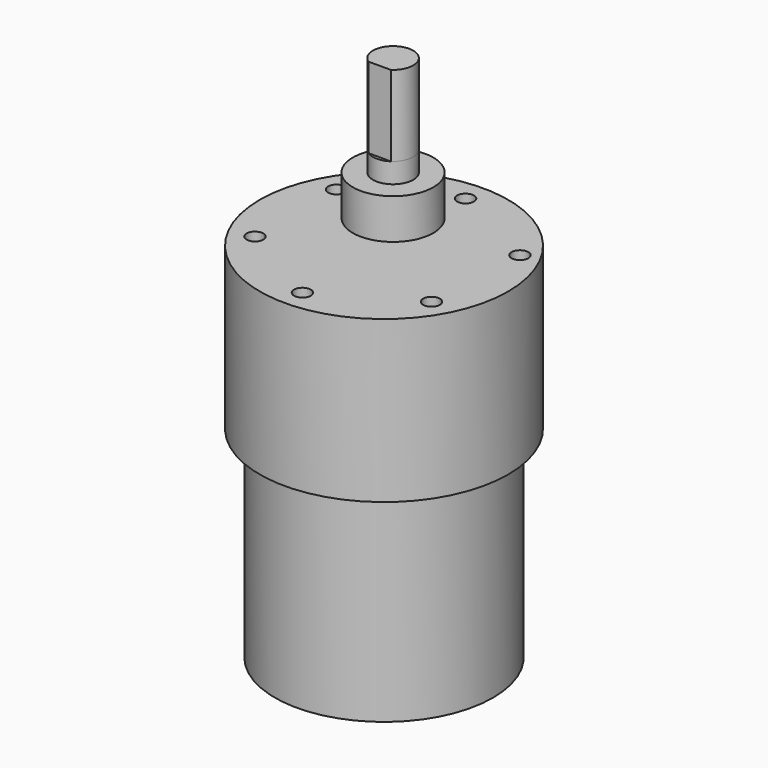
from build123d import *

# Parameters (mm, degrees)
SKETCH_R     = 16.25
PAD_DEPTH    = 30
SKETCH001_R  = 18.5
PAD001_DEPTH = 24
SKETCH002_R  = 1.25
POCKET_DEPTH = 4
SKETCH003_R  = 6
PAD002_DEPTH = 6
SKETCH004_R  = 3
PAD003_DEPTH = 3
PAD004_DEPTH = 12


with BuildPart() as part:
    # Sketch → Pad (new body)
    with BuildSketch(Plane.XY):
        Circle(SKETCH_R)
    extrude(amount=PAD_DEPTH)

    # Sketch001 (on Face3 of Pad) → Pad001 (join)
    with BuildSketch(Plane.XY.offset(30)):
        Circle(SKETCH001_R)
    extrude(amount=PAD001_DEPTH)

    # Sketch002 (on Face5 of Pad001) → Pocket (cut)
    with BuildSketch(Plane.XY.offset(54)):
        with Locations((-13.14747, 7.590696)):
            Circle(SKETCH002_R)
        with Locations((-13.14747, -7.590696)):
            Circle(SKETCH002_R)
        with Locations((13.14747, -7.590696)):
            Circle(SKETCH002_R)
        with Locations((0, 15.181391)):
            Circle(SKETCH002_R)
        with Locations((13.853779, 7.998483)):
            Circle(SKETCH002_R)
        with Locations((0, -15.181391)):
            Circle(SKETCH002_R)
    extrude(amount=-POCKET_DEPTH, mode=Mode.SUBTRACT)

    # Sketch003 (on Face5 of Pocket) → Pad002 (join)
    with BuildSketch(Plane(origin=(0, 0, 54), x_dir=(0.866025, 0.5, 0), z_dir=(0, 0, 1))):
        with Locations((0, 7)):
            Circle(SKETCH003_R)
    extrude(amount=PAD002_DEPTH)

    # Sketch004 (on Face17 of Pad002) → Pad003 (join)
    with BuildSketch(Plane.XY.offset(60)):
        with Locations((-3.5, 6.062178)):
            Circle(SKETCH004_R)
    extrude(amount=PAD003_DEPTH)

    # Sketch005 (on Face21 of Pad003) → Pad004 (join)
    with BuildSketch(Plane.XY.offset(63)):
        with BuildLine():
            Line((-5.158312, 3.562178), (-1.841688, 3.562178))
            ThreePointArc((-1.841688, 3.562178), (-3.5, 9.062178), (-5.158312, 3.562178))
        make_face()
    extrude(amount=PAD004_DEPTH)


solid = part.part
